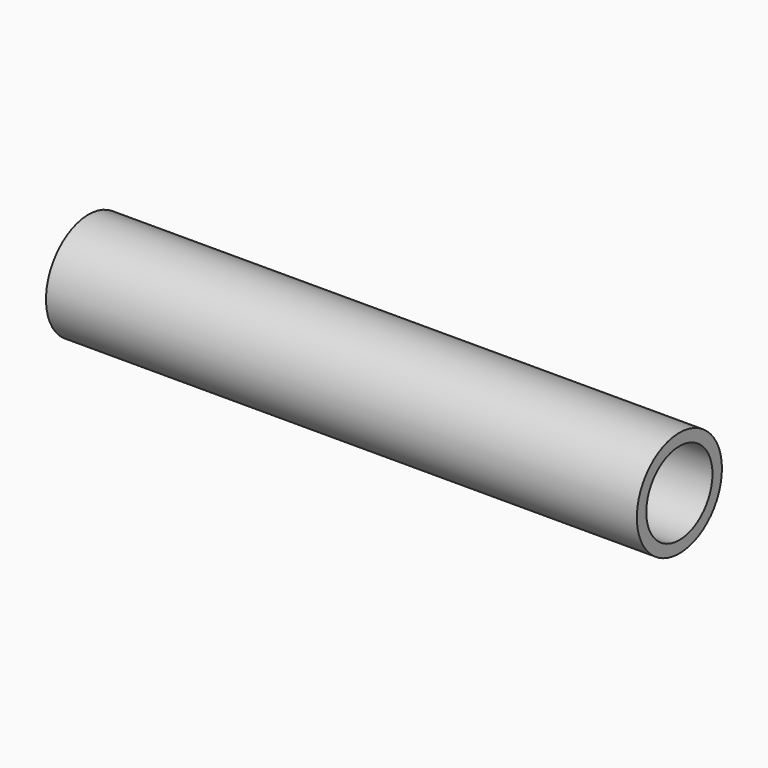
from build123d import *

# Parameters (mm, degrees)
F0_R     = 2.25
F0_R_2   = 1.75
F1_DEPTH = 25
F2_R     = 1.75
F3_DEPTH = 2


with BuildPart() as f1:
    # F0 (on Right) → F1 (new body)
    with BuildSketch(Plane.YZ):
        Circle(F0_R)
        Circle(F0_R_2, mode=Mode.SUBTRACT)
    extrude(amount=-F1_DEPTH)

    # F2 (on face) → F3 (join)
    with BuildSketch(Plane(origin=(-25, 0, 0), x_dir=(0, -1, 0), z_dir=(-1, 0, 0))):
        Circle(F2_R)
    extrude(amount=-F3_DEPTH)


solid = f1.part
